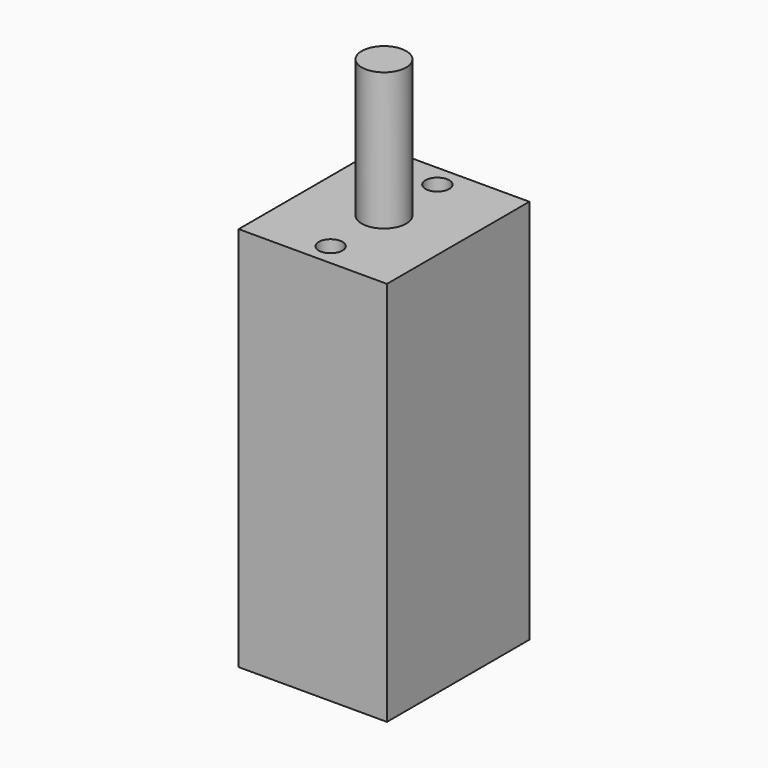
from build123d import *

# Parameters (mm, degrees)
F0_W     = 10
F0_H     = 12
F1_DEPTH = 26
F2_R     = 1.5
F3_DEPTH = 9.27
F4_R     = 0.8
F5_DEPTH = 3


with BuildPart() as f1:
    # F0 (on Top) → F1 (new body)
    with BuildSketch(Plane.XY):
        Rectangle(F0_W, F0_H)
    extrude(amount=F1_DEPTH)

    # F2 (on face) → F3 (join)
    with BuildSketch(Plane.XY.offset(26)):
        Circle(F2_R)
    extrude(amount=F3_DEPTH)

    # F4 (on face) → F5 (cut)
    with BuildSketch(Plane.XY.offset(26)):
        with Locations((0, 4.5)):
            Circle(F4_R)
        with Locations((0, -4.5)):
            Circle(F4_R)
    extrude(amount=-F5_DEPTH, mode=Mode.SUBTRACT)


solid = f1.part
